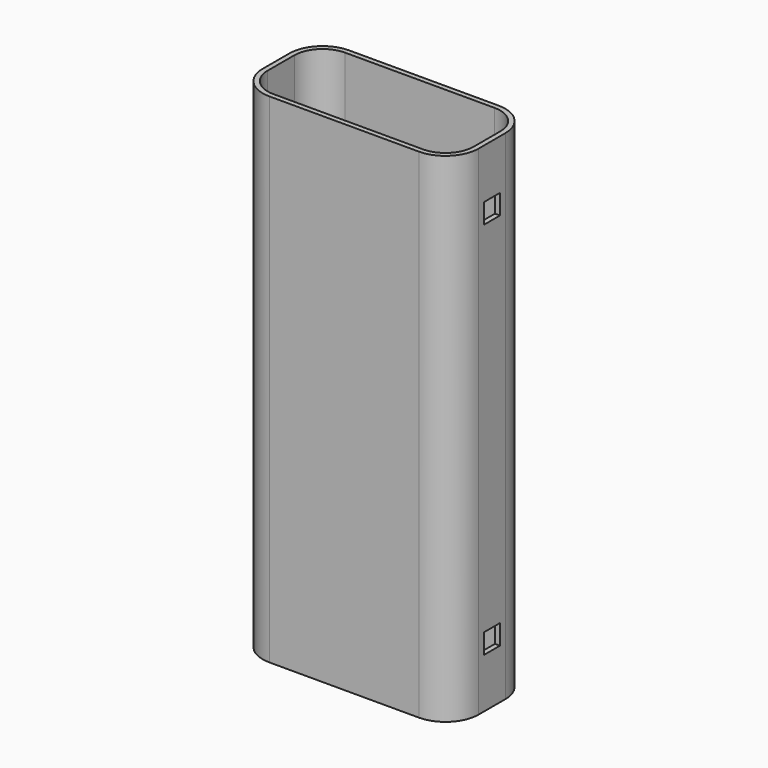
from build123d import *

# Parameters (mm, degrees)
F0_W     = 65
F0_H     = 30
F1_DEPTH = 150
F2_R     = 10
F3_T     = -1.5
F4_DEPTH = 1.5
F5_W     = 6
F5_H     = 6
F6_DEPTH = 65.001


with BuildPart() as f1:
    # F0 (on Top) → F1 (new body)
    with BuildSketch(Plane.XY):
        with Locations((32.5, -15)):
            Rectangle(F0_W, F0_H)
    extrude(amount=F1_DEPTH)

    # F2
    f2_edges = [f1.edges().sort_by_distance(p)[0] for p in [
        (65, 0, 75),
        (65, -30, 75),
        (0, 0, 75),
        (0, -30, 75),
    ]]
    fillet(f2_edges, radius=F2_R)

    # F3
    f3_openings = [f1.faces().sort_by_distance(p)[0] for p in [
        (32.5, -15, 150),
    ]]
    offset(amount=F3_T, openings=f3_openings)

    # F4 (cut, through all): a face of the model
    f4_faces = [f1.faces().sort_by_distance(p)[0] for p in [
        (32.5, -15, 1.5),
    ]]
    extrude(f4_faces, amount=-F4_DEPTH, mode=Mode.SUBTRACT)

    # F5 (on face) → F6 (cut, through all)
    with BuildSketch(Plane(origin=(0, 0, 0), x_dir=(0, -1, 0), z_dir=(-1, 0, 0))):
        with Locations((15, 18)):
            Rectangle(F5_W, F5_H)
        with Locations((15, 132)):
            Rectangle(F5_W, F5_H)
    extrude(amount=-F6_DEPTH, mode=Mode.SUBTRACT)


solid = f1.part
